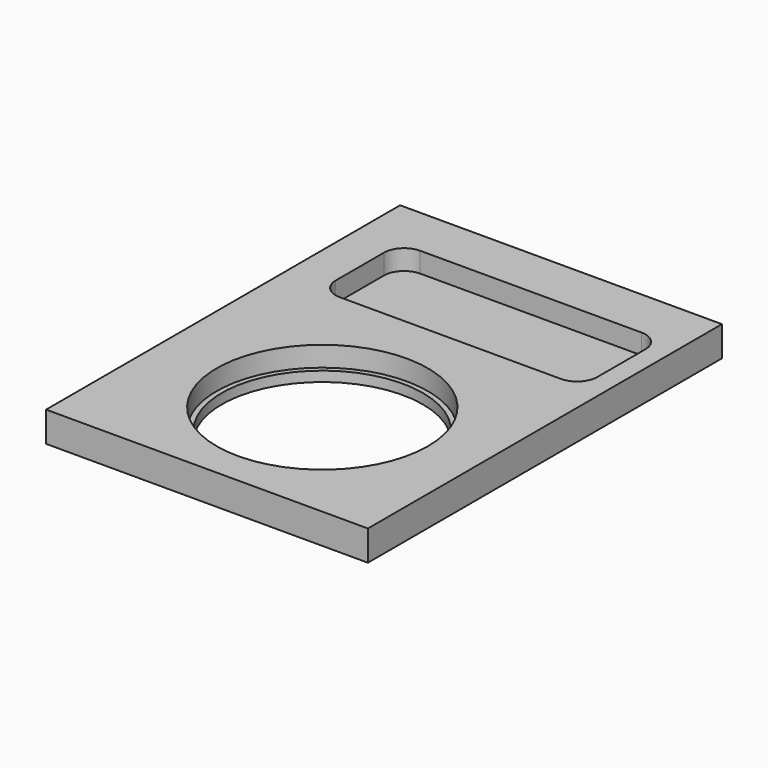
from build123d import *

# Parameters (mm, degrees)
F0_R     = 66.675
F0_R_2   = 63.5
F1_DEPTH = 6.35
F0_W     = 203.2
F0_H     = 279.4
F2_DEPTH = 19.05


with BuildPart() as f1:
    # F0 (on Top) → F1 (new body)
    with BuildSketch(Plane.XY):
        Circle(F0_R)
        Circle(F0_R_2, mode=Mode.SUBTRACT)
        with BuildLine():
            Line((73.025, 160.614605), (-66.675, 160.614605))
            ThreePointArc((-66.675, 160.614605), (-75.655256, 156.894861), (-79.375, 147.914605))
            Line((-79.375, 147.914605), (-79.375, 109.814605))
            ThreePointArc((-79.375, 109.814605), (-75.655256, 100.834349), (-66.675, 97.114605))
            Line((-66.675, 97.114605), (73.025, 97.114605))
            ThreePointArc((73.025, 97.114605), (82.005256, 100.834349), (85.725, 109.814605))
            Line((85.725, 109.814605), (85.725, 147.914605))
            ThreePointArc((85.725, 147.914605), (82.005256, 156.894861), (73.025, 160.614605))
        make_face()
    extrude(amount=F1_DEPTH)


with BuildPart() as f2:
    # F0 (on Top) → F2 (new body)
    with BuildSketch(Plane.XY):
        with Locations((-3.175, 52.664605)):
            Rectangle(F0_W, F0_H)
        Circle(F0_R, mode=Mode.SUBTRACT)
        with BuildLine():
            ThreePointArc((-79.375, 147.914605), (-75.655256, 156.894861), (-66.675, 160.614605))
            Line((-66.675, 160.614605), (73.025, 160.614605))
            ThreePointArc((73.025, 160.614605), (82.005256, 156.894861), (85.725, 147.914605))
            Line((85.725, 147.914605), (85.725, 109.814605))
            ThreePointArc((85.725, 109.814605), (82.005256, 100.834349), (73.025, 97.114605))
            Line((73.025, 97.114605), (-66.675, 97.114605))
            ThreePointArc((-66.675, 97.114605), (-75.655256, 100.834349), (-79.375, 109.814605))
            Line((-79.375, 109.814605), (-79.375, 147.914605))
        make_face(mode=Mode.SUBTRACT)
    extrude(amount=F2_DEPTH)


solid = Compound([f1.part, f2.part])
